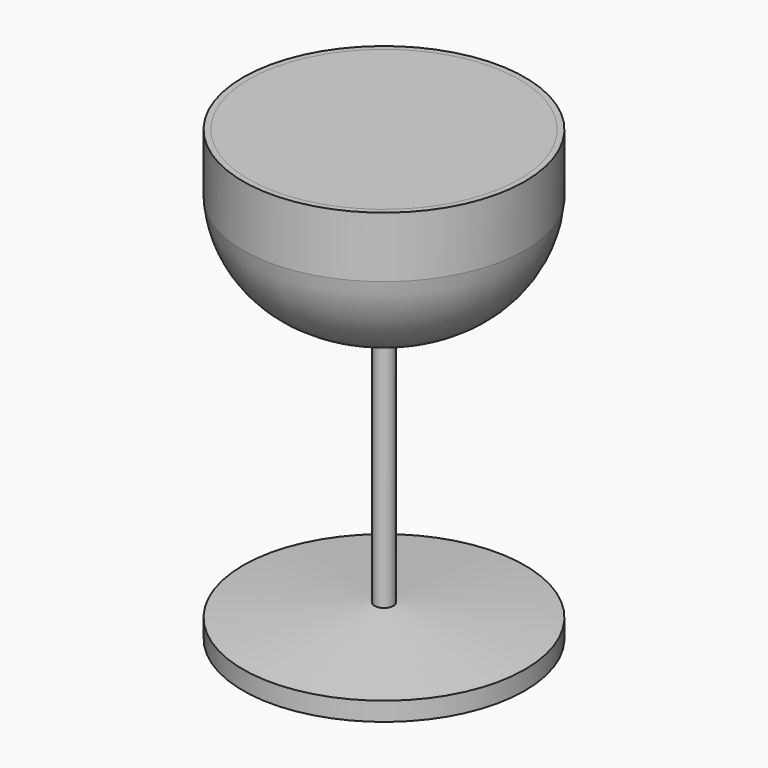
from build123d import *


with BuildPart() as f1:
    # F0 (on Front) → F1 (revolve)
    with BuildSketch(Plane.XZ):
        with BuildLine():
            Line((-47.903051, 0.02067), (-38.404212, 0.02067))
            ThreePointArc((-38.404212, 0.02067), (-19.509731, 4.883446), (0, 5.019141))
            Line((0, 5.019141), (0, 101.9006))
            ThreePointArc((0, 101.9006), (-36.543333, 114.827265), (-45.990538, 152.42067))
            Line((-45.990538, 152.42067), (-47.903051, 152.42067))
            Line((-47.903051, 152.42067), (-47.903051, 131.769022))
            ThreePointArc((-47.903051, 131.769022), (-33.0508, 104.889712), (-3.175, 97.781743))
            Line((-3.175, 97.781743), (-3.175, 10.84711))
            Line((-3.175, 10.84711), (-47.903051, 6.37067))
            Line((-47.903051, 6.37067), (-47.903051, 0.02067))
        make_face()
    revolve(axis=Axis((0, 0, 53.459871), (0, 0, -1)))


with BuildPart() as f2:
    # F0 (on Front) → F2 (revolve)
    with BuildSketch(Plane.XZ):
        with BuildLine():
            ThreePointArc((-45.990538, 152.42067), (-36.543333, 114.827265), (0, 101.9006))
            Line((0, 101.9006), (0, 152.42067))
            Line((0, 152.42067), (-45.990538, 152.42067))
        make_face()
    revolve(axis=Axis((0, 0, 127.160635), (0, 0, 1)))


solid = Compound([f1.part, f2.part])
